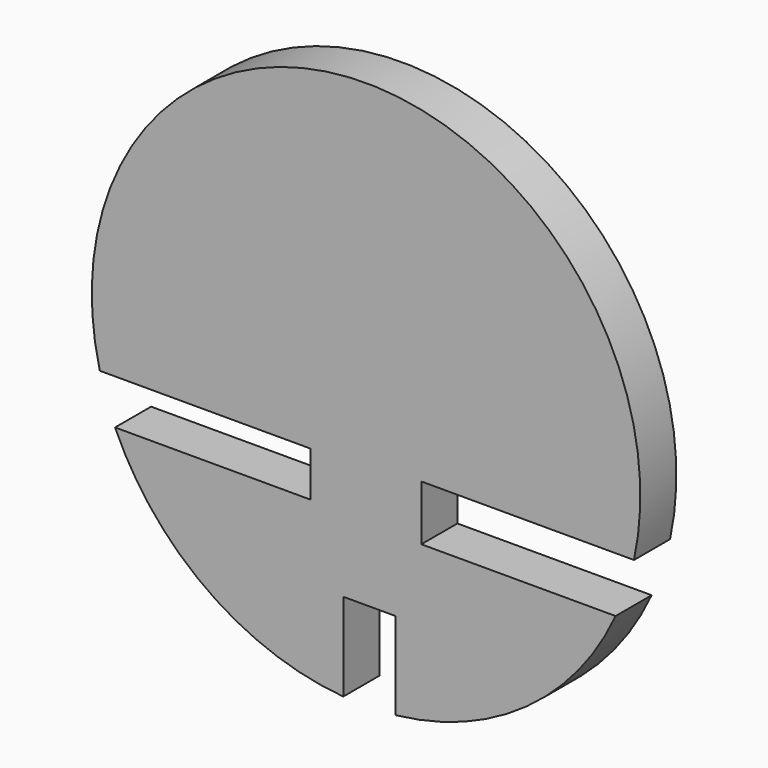
from build123d import *

# Parameters (mm, degrees)
F2_DEPTH = 3
F4_DEPTH = 3


with BuildPart() as f2:
    # F1 (on face) → F2 (new body)
    with BuildSketch(Plane.XZ):
        with BuildLine():
            Line((-1.32116, -5.919504), (-1.32116, -8.640318))
            Line((-1.32116, -8.640318), (-17.590988, -8.640318))
            ThreePointArc((-17.590988, -8.640318), (0, -19.945099), (17.590988, -8.640318))
            Line((17.590988, -8.640318), (1.10096, -8.640318))
            Line((1.10096, -8.640318), (1.10096, -5.919504))
            Line((1.10096, -5.919504), (18.594568, -5.919504))
            ThreePointArc((18.594568, -5.919504), (0, 18.732423), (-18.594568, -5.919504))
            Line((-18.594568, -5.919504), (-18.539109, -5.919504))
            Line((-18.539109, -5.919504), (-1.32116, -5.919504))
        make_face()
    extrude(amount=F2_DEPTH)


with BuildPart() as f4:
    # F3 (on face) → F4 (new body)
    with BuildSketch(Plane.XZ.offset(3)):
        with BuildLine():
            Line((-54.234255, 45.941614), (-67.258485, 45.941614))
            ThreePointArc((-67.258485, 45.941614), (-61.151606, 38.439632), (-52.068938, 35.111145))
            Line((-52.068938, 35.111145), (-52.068938, 40.961377))
            Line((-52.068938, 40.961377), (-48.604425, 40.961377))
            Line((-48.604425, 40.961377), (-48.604425, 35.152427))
            ThreePointArc((-48.604425, 35.152427), (-39.874481, 38.497244), (-33.945055, 45.725081))
            Line((-33.945055, 45.725081), (-46.872169, 45.725081))
            Line((-46.872169, 45.725081), (-46.872169, 49.406122))
            Line((-46.872169, 49.406122), (-32.718549, 49.406122))
            ThreePointArc((-32.718549, 49.406122), (-50.796761, 71.557655), (-68.277544, 48.931689))
            Line((-68.277544, 48.931689), (-54.234255, 48.931689))
            Line((-54.234255, 48.931689), (-54.234255, 45.941614))
        make_face()
    extrude(amount=F4_DEPTH)


solid = f4.part
